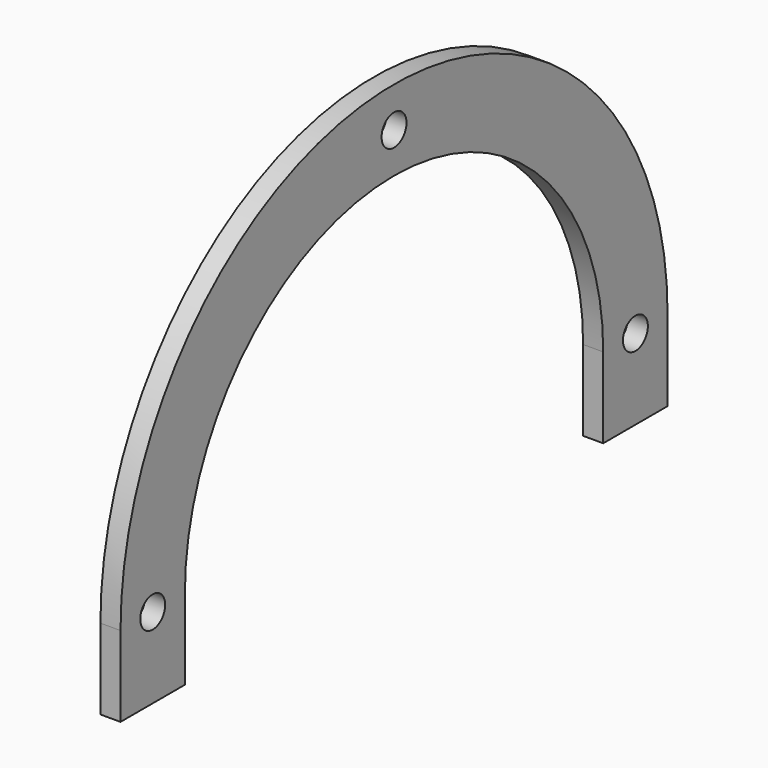
from build123d import *

# Parameters (mm, degrees)
F1_DEPTH = 3.175
F2_D     = 4.9149


with BuildPart() as f1:
    # F0 (on Right) → F1 (new body)
    with BuildSketch(Plane.YZ):
        with BuildLine():
            ThreePointArc((-41.275, 0), (0, 41.275), (41.275, 0))
            Line((41.275, 0), (41.275, -12.7))
            Line((41.275, -12.7), (53.975, -12.7))
            Line((53.975, -12.7), (53.975, 0))
            ThreePointArc((53.975, 0), (0, 53.975), (-53.975, 0))
            Line((-53.975, 0), (-53.975, -12.7))
            Line((-53.975, -12.7), (-41.275, -12.7))
            Line((-41.275, -12.7), (-41.275, 0))
        make_face()
    extrude(amount=-F1_DEPTH)

    # F2 (through all)
    with Locations(Plane.YZ):
        with Locations((-47.625, 0), (0, 47.625), (47.625, 0)):
            Hole(F2_D / 2)


solid = f1.part
